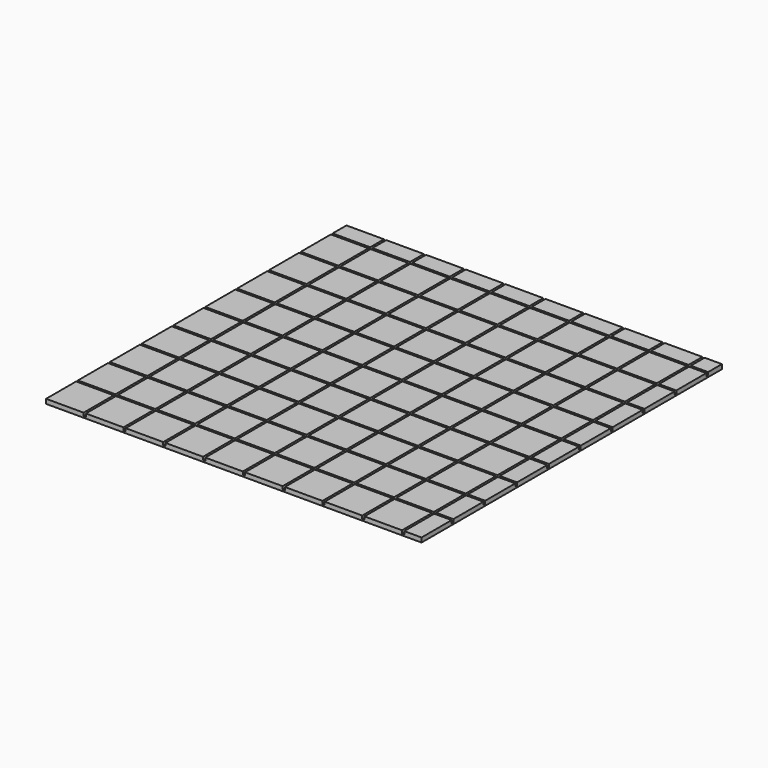
from build123d import *

# Parameters (mm, degrees)
F0_W     = 50
F0_H     = 50
F1_DEPTH = 0.6
F2_W     = 0.3
F2_H     = 50
F3_DEPTH = 0.4
F5_COUNT = 2
F5_ANGLE = 90


with BuildPart() as f1:
    # F0 (on Top) → F1 (new body)
    with BuildSketch(Plane.XY):
        with Locations((25, 25)):
            Rectangle(F0_W, F0_H)
    extrude(amount=F1_DEPTH)


with BuildPart() as f3:
    # F2 (on face) → F3 (new body)
    with BuildSketch(Plane.XY.offset(0.6)):
        with Locations((5.15, 25)):
            Rectangle(F2_W, F2_H)
    extrude(amount=-F3_DEPTH)


with BuildPart() as f3b:
    # F2 (on face) → F3, piece 2 (new body)
    with BuildSketch(Plane.XY.offset(0.6)):
        with Locations((10.45, 25)):
            Rectangle(F2_W, F2_H)
    extrude(amount=-F3_DEPTH)


with BuildPart() as f3c:
    # F2 (on face) → F3, piece 3 (new body)
    with BuildSketch(Plane.XY.offset(0.6)):
        with Locations((15.75, 25)):
            Rectangle(F2_W, F2_H)
    extrude(amount=-F3_DEPTH)


with BuildPart() as f3d:
    # F2 (on face) → F3, piece 4 (new body)
    with BuildSketch(Plane.XY.offset(0.6)):
        with Locations((21.05, 25)):
            Rectangle(F2_W, F2_H)
    extrude(amount=-F3_DEPTH)


with BuildPart() as f3e:
    # F2 (on face) → F3, piece 5 (new body)
    with BuildSketch(Plane.XY.offset(0.6)):
        with Locations((26.35, 25)):
            Rectangle(F2_W, F2_H)
    extrude(amount=-F3_DEPTH)


with BuildPart() as f3f:
    # F2 (on face) → F3, piece 6 (new body)
    with BuildSketch(Plane.XY.offset(0.6)):
        with Locations((31.65, 25)):
            Rectangle(F2_W, F2_H)
    extrude(amount=-F3_DEPTH)


with BuildPart() as f3g:
    # F2 (on face) → F3, piece 7 (new body)
    with BuildSketch(Plane.XY.offset(0.6)):
        with Locations((36.95, 25)):
            Rectangle(F2_W, F2_H)
    extrude(amount=-F3_DEPTH)


with BuildPart() as f3h:
    # F2 (on face) → F3, piece 8 (new body)
    with BuildSketch(Plane.XY.offset(0.6)):
        with Locations((42.25, 25)):
            Rectangle(F2_W, F2_H)
    extrude(amount=-F3_DEPTH)


with BuildPart() as f3i:
    # F2 (on face) → F3, piece 9 (new body)
    with BuildSketch(Plane.XY.offset(0.6)):
        with Locations((47.55, 25)):
            Rectangle(F2_W, F2_H)
    extrude(amount=-F3_DEPTH)


with BuildPart() as f5_1:
    # F5: instance of F3
    add(f3.part.rotate(Axis((25, 25, 0.6), (0, 0, 1)), 1 * F5_ANGLE / (F5_COUNT - 1)))


with BuildPart() as f5_2:
    # F5: instance of F3b
    add(f3b.part.rotate(Axis((25, 25, 0.6), (0, 0, 1)), 1 * F5_ANGLE / (F5_COUNT - 1)))


with BuildPart() as f5_3:
    # F5: instance of F3c
    add(f3c.part.rotate(Axis((25, 25, 0.6), (0, 0, 1)), 1 * F5_ANGLE / (F5_COUNT - 1)))


with BuildPart() as f5_4:
    # F5: instance of F3d
    add(f3d.part.rotate(Axis((25, 25, 0.6), (0, 0, 1)), 1 * F5_ANGLE / (F5_COUNT - 1)))


with BuildPart() as f5_5:
    # F5: instance of F3e
    add(f3e.part.rotate(Axis((25, 25, 0.6), (0, 0, 1)), 1 * F5_ANGLE / (F5_COUNT - 1)))


with BuildPart() as f5_6:
    # F5: instance of F3f
    add(f3f.part.rotate(Axis((25, 25, 0.6), (0, 0, 1)), 1 * F5_ANGLE / (F5_COUNT - 1)))


with BuildPart() as f5_7:
    # F5: instance of F3g
    add(f3g.part.rotate(Axis((25, 25, 0.6), (0, 0, 1)), 1 * F5_ANGLE / (F5_COUNT - 1)))


with BuildPart() as f5_8:
    # F5: instance of F3h
    add(f3h.part.rotate(Axis((25, 25, 0.6), (0, 0, 1)), 1 * F5_ANGLE / (F5_COUNT - 1)))


with BuildPart() as f5_9:
    # F5: instance of F3i
    add(f3i.part.rotate(Axis((25, 25, 0.6), (0, 0, 1)), 1 * F5_ANGLE / (F5_COUNT - 1)))


with BuildPart() as f1_1:
    add(f1.part)

    # F6: cut F3, F5_1, F5_2, F3b, F3c, F3d, F3e, F3f, F3g, F3h, F3i, F5_3, F5_4, F5_5, F5_6, F5_7, F5_8, F5_9
    add(f3.part, mode=Mode.SUBTRACT)
    add(f5_1.part, mode=Mode.SUBTRACT)
    add(f5_2.part, mode=Mode.SUBTRACT)
    add(f3b.part, mode=Mode.SUBTRACT)
    add(f3c.part, mode=Mode.SUBTRACT)
    add(f3d.part, mode=Mode.SUBTRACT)
    add(f3e.part, mode=Mode.SUBTRACT)
    add(f3f.part, mode=Mode.SUBTRACT)
    add(f3g.part, mode=Mode.SUBTRACT)
    add(f3h.part, mode=Mode.SUBTRACT)
    add(f3i.part, mode=Mode.SUBTRACT)
    add(f5_3.part, mode=Mode.SUBTRACT)
    add(f5_4.part, mode=Mode.SUBTRACT)
    add(f5_5.part, mode=Mode.SUBTRACT)
    add(f5_6.part, mode=Mode.SUBTRACT)
    add(f5_7.part, mode=Mode.SUBTRACT)
    add(f5_8.part, mode=Mode.SUBTRACT)
    add(f5_9.part, mode=Mode.SUBTRACT)


solid = f1_1.part
